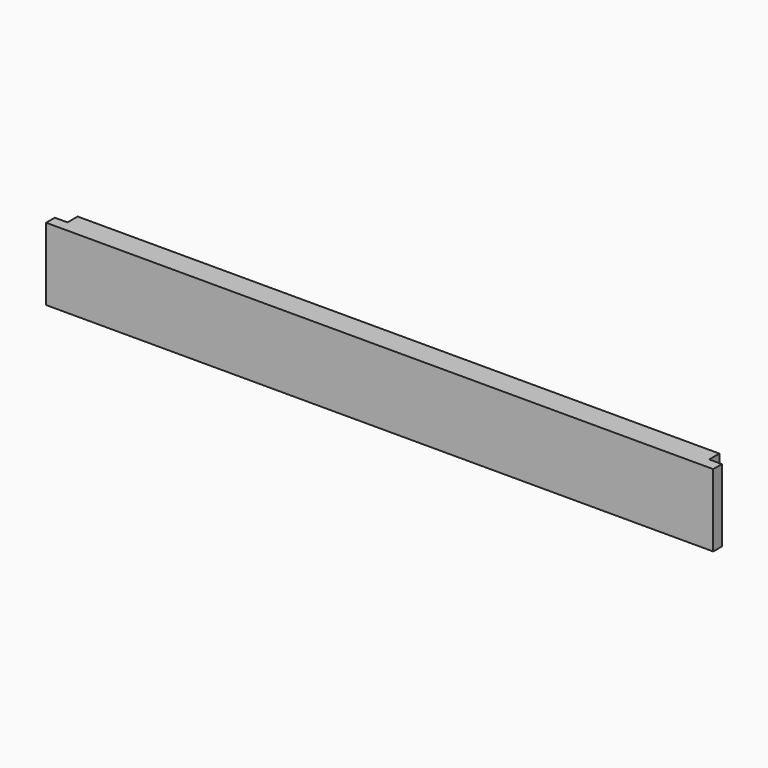
from build123d import *

# Parameters (mm, degrees)
F0_W     = 584.2
F0_H     = 20.6375
F1_DEPTH = 63.5
F2_W     = 11.1125
F2_H     = 11.1125
F3_DEPTH = 63.501


with BuildPart() as f1:
    # F0 (on Top) → F1 (new body)
    with BuildSketch(Plane.XY):
        with Locations((0, 10.31875)):
            Rectangle(F0_W, F0_H)
    extrude(amount=-F1_DEPTH)

    # F2 (on face) → F3 (cut, through all)
    with BuildSketch(Plane.XY):
        with Locations((286.54375, 15.08125)):
            Rectangle(F2_W, F2_H)
        with Locations((-286.54375, 15.08125)):
            Rectangle(F2_W, F2_H)
    extrude(amount=-F3_DEPTH, mode=Mode.SUBTRACT)


solid = f1.part
